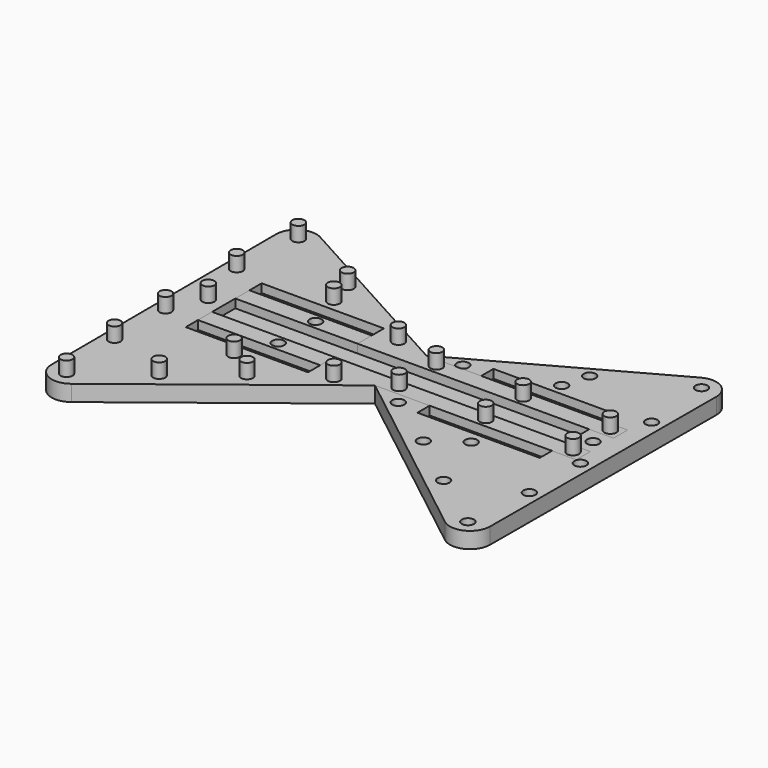
from build123d import *

# Parameters (mm, degrees)
PAD_DEPTH           = 2
POCKET_DEPTH        = 1.075
SKETCH002_R         = 0.75
POCKET001_DEPTH     = 1.8
PAD001_DEPTH        = 2
POCKET002_DEPTH     = 1.075
MIRROREDSKETCH002_R = 0.75
PAD002_DEPTH        = 1.8


with BuildPart() as keybody:
    # Sketch → Pad (new body)
    with BuildSketch(Plane.XY):
        with BuildLine():
            Line((0, 4), (-25, 4))
            Line((-25, 4), (-25, -4))
            Line((-25, -4), (0, -4))
            Line((23.208082, -22.129738), (0, -4))
            ThreePointArc((23.208082, -22.129738), (25.839668, -22.408238), (27.247098, -20.167268))
            Line((27.354284, 14.832732), (27.247098, -20.167268))
            ThreePointArc((27.354284, 14.832732), (26.129163, 16.990902), (23.647814, 17.03))
            Line((0, 4), (23.647814, 17.03))
        make_face()
    extrude(amount=PAD_DEPTH)

    # Sketch001 (on Face10 of Pad) → Pocket (cut)
    with BuildSketch(Plane.XY.offset(2)):
        Polygon((6.8, 5.9), (22, 5.9), (22, -5.9), (6.8, -5.9), (6.8, -1.8), (-25.01, -1.8), (-25.01, 1.8), (6.8, 1.8), align=None)
    extrude(amount=-POCKET_DEPTH, mode=Mode.SUBTRACT)

    # Sketch002 (on Face5 of Pocket) → Pocket001 (cut)
    with BuildSketch(Plane.XY.offset(2)):
        with Locations((-23.74, 2.9)):
            Circle(SKETCH002_R)
        with Locations((-23.74, -2.9)):
            Circle(SKETCH002_R)
        with Locations((-12.9, 2.9)):
            Circle(SKETCH002_R)
        with Locations((-2.12, 2.9)):
            Circle(SKETCH002_R)
        with Locations((-2.12, -2.9)):
            Circle(SKETCH002_R)
        with Locations((-12.9, -2.9)):
            Circle(SKETCH002_R)
        with Locations((4, 4.65)):
            Circle(SKETCH002_R)
        with Locations((4, -5.37)):
            Circle(SKETCH002_R)
        with Locations((14.73, -7.47)):
            Circle(SKETCH002_R)
        with Locations((14.16, 7.31)):
            Circle(SKETCH002_R)
        with Locations((23.91, 0)):
            Circle(SKETCH002_R)
        with Locations((15.04, 10.56)):
            Circle(SKETCH002_R)
        with Locations((25.05, 15.42)):
            Circle(SKETCH002_R)
        with Locations((25.78, 6.75)):
            Circle(SKETCH002_R)
        with Locations((25.78, -4.31)):
            Circle(SKETCH002_R)
        with Locations((25.78, -12.23)):
            Circle(SKETCH002_R)
        with Locations((24.94, -20.74)):
            Circle(SKETCH002_R)
        with Locations((17.67, -15.43)):
            Circle(SKETCH002_R)
        with Locations((10.96, -10.18)):
            Circle(SKETCH002_R)
    extrude(amount=-POCKET001_DEPTH, mode=Mode.SUBTRACT)


with BuildPart() as keybody2:
    # MirroredSketch → Pad001 (new body)
    with BuildSketch(Plane.XY):
        with BuildLine():
            Line((0.004285, 4), (25.004285, 4))
            Line((25.004285, 4), (25.004285, -4))
            Line((25.004285, -4), (-0.002901, -4))
            Line((-23.210983, -22.129738), (-0.002901, -4))
            ThreePointArc((-27.25, -20.166755), (-25.842799, -22.408126), (-23.210983, -22.129738))
            Line((-27.35, 14.833245), (-27.25, -20.166755))
            ThreePointArc((-23.643529, 17.03), (-26.124657, 16.991033), (-27.35, 14.833245))
            Line((0.004285, 4), (-23.643529, 17.03))
        make_face()
    extrude(amount=PAD001_DEPTH)

    # MirroredSketch001 (on Face10 of Pad001) → Pocket002 (cut)
    with BuildSketch(Plane.XY.offset(2)):
        Polygon((-6.8, 5.9), (-22, 5.9), (-22, -5.9), (-6.8, -5.9), (-6.8, -1.8), (25.01, -1.8), (25.01, 1.8), (-6.8, 1.8), align=None)
    extrude(amount=-POCKET002_DEPTH, mode=Mode.SUBTRACT)

    # MirroredSketch002 (on Face5 of Pocket002) → Pad002 (join)
    with BuildSketch(Plane.XY.offset(2)):
        with Locations((23.74, 2.9)):
            Circle(MIRROREDSKETCH002_R)
        with Locations((23.74, -2.9)):
            Circle(MIRROREDSKETCH002_R)
        with Locations((12.9, 2.9)):
            Circle(MIRROREDSKETCH002_R)
        with Locations((2.12, 2.9)):
            Circle(MIRROREDSKETCH002_R)
        with Locations((2.12, -2.9)):
            Circle(MIRROREDSKETCH002_R)
        with Locations((12.9, -2.9)):
            Circle(MIRROREDSKETCH002_R)
        with Locations((-4, 4.65)):
            Circle(MIRROREDSKETCH002_R)
        with Locations((-4, -5.37)):
            Circle(MIRROREDSKETCH002_R)
        with Locations((-14.73, -7.47)):
            Circle(MIRROREDSKETCH002_R)
        with Locations((-14.16, 7.31)):
            Circle(MIRROREDSKETCH002_R)
        with Locations((-23.91, 0)):
            Circle(MIRROREDSKETCH002_R)
        with Locations((-15.04, 10.56)):
            Circle(MIRROREDSKETCH002_R)
        with Locations((-25.05, 15.42)):
            Circle(MIRROREDSKETCH002_R)
        with Locations((-25.78, 6.75)):
            Circle(MIRROREDSKETCH002_R)
        with Locations((-25.78, -4.31)):
            Circle(MIRROREDSKETCH002_R)
        with Locations((-25.78, -12.23)):
            Circle(MIRROREDSKETCH002_R)
        with Locations((-24.94, -20.74)):
            Circle(MIRROREDSKETCH002_R)
        with Locations((-17.67, -15.43)):
            Circle(MIRROREDSKETCH002_R)
        with Locations((-10.96, -10.18)):
            Circle(MIRROREDSKETCH002_R)
    extrude(amount=PAD002_DEPTH)


solid = Compound([keybody.part, keybody2.part])
